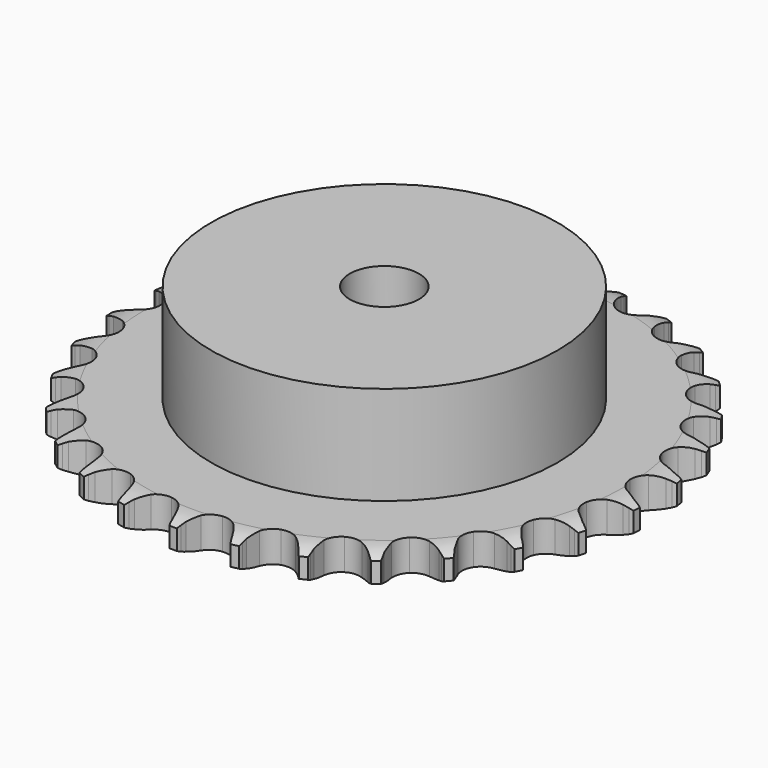
from build123d import *

# Parameters (mm, degrees)
PAD_DEPTH         = 7.2
SKETCH001_R       = 40
PAD001_DEPTH      = 30
SKETCH002_R       = 8
POCKET_DEPTH      = 0.0010001
POCKET_DEPTH_BACK = 30.001


with BuildPart() as part:
    # Sprocket → Pad (new body)
    with BuildSketch(Plane.XY):
        with BuildLine():
            ThreePointArc((-6.7610189515, 62.1665426366), (-5.9564888535, 61.1151350621), (-5.3662959563, 59.9300616844))
            Line((-5.3662959563, 59.9300616844), (-4.9514566278, 58.849368286))
            ThreePointArc((-4.9514566278, 58.849368286), (-4.2924263855, 57.4371830001), (-3.4424852937, 56.1309715768))
            ThreePointArc((-3.4424852937, 56.1309715768), (-1.9227405966, 54.8693324715), (0, 54.4171977849))
            ThreePointArc((0, 54.4171977849), (1.9227405966, 54.8693324715), (3.4424852937, 56.1309715768))
            ThreePointArc((3.4424852937, 56.1309715768), (4.2924263855, 57.4371830001), (4.9514566278, 58.849368286))
            Line((4.9514566278, 58.849368286), (5.3662959563, 59.9300616844))
            ThreePointArc((5.3662959563, 59.9300616844), (5.9564888535, 61.1151350621), (6.7610189515, 62.1665426366))
            ThreePointArc((6.7610189515, 62.1665426366), (7.3207180337, 60.9667661975), (7.6423568032, 59.68252515))
            Line((7.6423568032, 59.68252515), (7.8151802832, 58.5379195696))
            ThreePointArc((7.8151802832, 58.5379195696), (8.1552246721, 57.0170783697), (8.7044977688, 55.5586932329))
            ThreePointArc((8.7044977688, 55.5586932329), (9.9174965656, 53.9998503622), (11.6980889629, 53.1449539409))
            ThreePointArc((11.6980889629, 53.1449539409), (13.6730725454, 53.1731855773), (15.4285015698, 54.0786280749))
            Line((15.4285015698, 54.0786280749), (17.48656893, 56.4090859477))
            ThreePointArc((17.48656893, 56.4090859477), (17.7927187887, 56.9005092237), (18.1240266811, 57.3753351419))
            ThreePointArc((18.1240266811, 57.3753351419), (18.955176942, 58.4058281356), (19.9669191225, 59.2597041961))
            ThreePointArc((19.9669191225, 59.2597041961), (20.255616282, 57.9676591053), (20.2936614525, 56.6443000719))
            Line((20.2936614525, 56.6443000719), (20.2163880501, 55.4893027944))
            ThreePointArc((20.2163880501, 55.4893027944), (20.2215464879, 53.9309185246), (20.44446819, 52.3885521425))
            ThreePointArc((20.44446819, 52.3885521425), (21.2940026108, 50.6053952665), (22.8491882873, 49.387711117))
            ThreePointArc((22.8491882873, 49.387711117), (24.7840668185, 48.9907196232), (26.6930982602, 49.4976280283))
            Line((26.6930982602, 49.4976280283), (29.2040287039, 51.3311774447))
            ThreePointArc((29.2040287039, 51.3311774447), (29.608662427, 51.7452983477), (30.0342980617, 52.1378016963))
            ThreePointArc((30.0342980617, 52.1378016963), (31.0675420239, 52.965529599), (32.2391883471, 53.5819478498))
            ThreePointArc((32.2391883471, 53.5819478498), (32.2433844254, 52.2580486998), (31.996057047, 50.9574504781))
            Line((31.996057047, 50.9574504781), (31.6722999806, 49.8460678924))
            ThreePointArc((31.6722999806, 49.8460678924), (31.3423312645, 48.3230088692), (31.228478001, 46.7687805795))
            ThreePointArc((31.228478001, 46.7687805795), (31.6748247605, 44.844688132), (32.9318849625, 43.3211538117))
            ThreePointArc((32.9318849625, 43.3211538117), (34.7361856727, 42.5175020689), (36.7095553431, 42.6021739077))
            Line((36.7095553431, 42.6021739077), (39.5559405537, 43.8530801349))
            ThreePointArc((39.5559405537, 43.8530801349), (40.040137918, 44.1705348317), (40.5401990457, 44.4623625904))
            ThreePointArc((40.5401990457, 44.4623625904), (41.7272233699, 45.0486217653), (43.0039889558, 45.3987591741))
            ThreePointArc((43.0039889558, 45.3987591741), (42.7234877491, 44.1049100177), (42.2023525751, 42.8878871351))
            Line((42.2023525751, 42.8878871351), (41.6472503653, 41.8720862557))
            ThreePointArc((41.6472503653, 41.8720862557), (40.9975834657, 40.4555690262), (40.5522788886, 38.9621528165))
            ThreePointArc((40.5522788886, 38.9621528165), (40.5745673085, 36.9870932217), (41.474723298, 35.2289475022))
            ThreePointArc((41.474723298, 35.2289475022), (43.0640790913, 34.0562133726), (45.009514418, 33.7146894842))
            Line((45.009514418, 33.7146894842), (48.0582605864, 34.3244615371))
            ThreePointArc((48.0582605864, 34.3244615371), (48.5993810613, 34.530406199), (49.1504853795, 34.7079128261))
            ThreePointArc((49.1504853795, 34.7079128261), (50.4357861275, 35.0252904458), (51.7579708364, 35.0927749765))
            ThreePointArc((51.7579708364, 35.0927749765), (51.2058882694, 33.8894747623), (50.4353130013, 32.8129338561))
            Line((50.4353130013, 32.8129338561), (49.6748216105, 31.9402124032))
            ThreePointArc((49.6748216105, 31.9402124032), (48.7358342296, 30.6964717387), (47.979900286, 29.333698091))
            ThreePointArc((47.979900286, 29.333698091), (47.5770881845, 27.4000229406), (48.078249668, 25.4894747617))
            ThreePointArc((48.078249668, 25.4894747617), (49.378344034, 24.0024939898), (51.2048786231, 23.2507436515))
            Line((51.2048786231, 23.2507436515), (54.3134297669, 23.1908692668))
            ThreePointArc((54.3134297669, 23.1908692668), (54.8861711605, 23.2756741502), (55.4625496438, 23.3305596331))
            ThreePointArc((55.4625496438, 23.3305596331), (56.7860275812, 23.3642154729), (58.0918075256, 23.1458916238))
            ThreePointArc((58.0918075256, 23.1458916238), (57.2939583654, 22.0894053324), (56.3099742464, 21.2036842589))
            Line((56.3099742464, 21.2036842589), (55.3796534068, 20.5148497177))
            ThreePointArc((55.3796534068, 20.5148497177), (54.1952515509, 19.5020415494), (53.1640348719, 18.3336322449))
            ThreePointArc((53.1640348719, 18.3336322449), (52.3549572952, 16.5317580397), (52.4336905186, 14.5581425108))
            ThreePointArc((52.4336905186, 14.5581425108), (53.3837324896, 12.8264446649), (55.005959614, 11.699618887))
            Line((55.005959614, 11.699618887), (58.0289633367, 10.9728977244))
            ThreePointArc((58.0289633367, 10.9728977244), (58.6065448979, 10.9325974473), (59.1812467289, 10.8622954018))
            ThreePointArc((59.1812467289, 10.8622954018), (60.4810174983, 10.6106557519), (61.7093358593, 10.1167321036))
            ThreePointArc((61.7093358593, 10.1167321036), (60.703026646, 9.2564598598), (59.5516436798, 8.602973952))
            Line((59.5516436798, 8.602973952), (58.4949941599, 8.13023546))
            ThreePointArc((58.4949941599, 8.13023546), (57.1205591434, 7.3957175722), (55.8622782748, 6.4763061314))
            ThreePointArc((55.8622782748, 6.4763061314), (54.6847667911, 4.8904865067), (54.3373902764, 2.9460876964))
            ThreePointArc((54.3373902764, 2.9460876964), (54.8929569459, 1.050645043), (56.235023068, -0.3985670534))
            Line((56.235023068, -0.3985670534), (59.0311270754, -1.7581543201))
            ThreePointArc((59.0311270754, -1.7581543201), (59.5865417323, -1.9216753616), (60.1326944922, -2.1138776899))
            ThreePointArc((60.1326944922, -2.1138776899), (61.347982257, -2.6390464391), (62.4414042332, -3.3854745658))
            ThreePointArc((62.4414042332, -3.3854745658), (61.2736888671, -4.0093073881), (60.0087444416, -4.4000018553))
            Line((60.0087444416, -4.4000018553), (58.8751739985, -4.6345395717))
            ThreePointArc((58.8751739985, -4.6345395717), (57.3749728753, -5.0564219389), (55.9484636319, -5.6838448589))
            ThreePointArc((55.9484636319, -5.6838448589), (54.4575773696, -6.9794587401), (53.7003340565, -8.8037229045))
            ThreePointArc((53.7003340565, -8.8037229045), (53.8354477444, -10.7742815734), (54.8345993441, -12.4781164414))
            Line((54.8345993441, -12.4781164414), (57.2730609204, -14.4069970227))
            ThreePointArc((57.2730609204, -14.4069970227), (57.780338101, -14.6860927664), (58.2724042938, -14.9912082103))
            ThreePointArc((58.2724042938, -14.9912082103), (59.3463835488, -15.7653497518), (60.2537819438, -16.7293802072))
            ThreePointArc((60.2537819438, -16.7293802072), (58.9792614976, -17.0876038785), (57.6599030082, -17.1972384662))
            Line((57.6599030082, -17.1972384662), (56.5024161361, -17.1826086839))
            ThreePointArc((56.5024161361, -17.1826086839), (54.9465966432, -17.27212878), (53.4185610119, -17.5782255808))
            ThreePointArc((53.4185610119, -17.5782255808), (51.6840121555, -18.5230522533), (50.5523098999, -20.1418812069))
            ThreePointArc((50.5523098999, -20.1418812069), (50.2606528403, -22.0954147582), (50.8701706992, -23.974202973))
            Line((50.8701706992, -23.974202973), (52.8369700912, -26.3821845567))
            ThreePointArc((52.8369700912, -26.3821845567), (53.2723900783, -26.7638047959), (53.6873612357, -27.1675664963))
            ThreePointArc((53.6873612357, -27.1675664963), (54.5698139046, -28.154482832), (55.248759778, -29.2910386235))
            ThreePointArc((55.248759778, -29.2910386235), (53.9270294113, -29.366903003), (52.6149485946, -29.1903513197))
            Line((52.6149485946, -29.1903513197), (51.487668093, -28.9272381112))
            ThreePointArc((51.487668093, -28.9272381112), (49.9489786209, -28.6802100759), (48.3908658495, -28.6506680113))
            ThreePointArc((48.3908658495, -28.6506680113), (46.4937599757, -29.20052843), (45.0405159171, -30.5382275302))
            ThreePointArc((45.0405159171, -30.5382275302), (44.33572567, -32.3833909061), (44.5271094105, -34.349282419))
            Line((44.5271094105, -34.349282419), (45.9302812646, -37.1237704625))
            ThreePointArc((45.9302812646, -37.1237704625), (46.2734843036, -37.5900710589), (46.5919568354, -38.0735995675))
            ThreePointArc((46.5919568354, -38.0735995675), (47.2416204122, -39.2271435864), (47.6603670096, -40.4830806284))
            ThreePointArc((47.6603670096, -40.4830806284), (46.3532293653, -40.2730383821), (45.109777662, -39.8185557883))
            Line((45.109777662, -39.8185557883), (44.0654139144, -39.3192620347))
            ThreePointArc((44.0654139144, -39.3192620347), (42.6158018725, -38.7472366244), (41.1004675825, -38.3834370485))
            ThreePointArc((41.1004675825, -38.3834370485), (39.1295112535, -38.5126203513), (37.422677469, -39.5066402749))
            ThreePointArc((37.422677469, -39.5066402749), (36.337709243, -41.1571556869), (36.1020099741, -43.1182275956))
            Line((36.1020099741, -43.1182275956), (36.8759435339, -46.1294901216))
            ThreePointArc((36.8759435339, -46.1294901216), (37.1108818322, -46.6586673776), (37.3179643168, -47.1993534387))
            ThreePointArc((37.3179643168, -47.1993534387), (37.7044612546, -48.4655867045), (37.8434284504, -49.7821787769))
            ThreePointArc((37.8434284504, -49.7821787769), (36.612003832, -49.2960512467), (35.4953236618, -48.5848888434))
            Line((35.4953236618, -48.5848888434), (34.5827099563, -47.8727609657))
            ThreePointArc((34.5827099563, -47.8727609657), (33.2899575927, -47.0024854528), (31.8882571312, -46.3214392294))
            ThreePointArc((31.8882571312, -46.3214392294), (29.9356100745, -46.0239049488), (28.0549962148, -46.6277664289))
            ThreePointArc((28.0549962148, -46.6277664289), (26.6405819183, -48.0064576106), (25.9888206758, -49.8710123723))
            Line((25.9888206758, -49.8710123723), (26.0973276683, -52.9782460919))
            ThreePointArc((26.0973276683, -52.9782460919), (26.213015772, -53.545556267), (26.2990252626, -54.1181180014))
            ThreePointArc((26.2990252626, -54.1181180014), (26.4042833942, -55.437832854), (26.2569732369, -56.7535175746))
            ThreePointArc((26.2569732369, -56.7535175746), (25.1588416909, -56.0140355437), (24.2211477775, -55.0794464944))
            Line((24.2211477775, -55.0794464944), (23.4829569166, -54.1877828007))
            ThreePointArc((23.4829569166, -54.1877828007), (22.4075118949, -53.059950301), (21.1849872178, -52.0935023946))
            ThreePointArc((21.1849872178, -52.0935023946), (19.3419530394, -51.3831629027), (17.3754945184, -51.5686300478))
            ThreePointArc((17.3754945184, -51.5686300478), (15.697770592, -52.6110309318), (14.6604230072, -54.2918840381))
            Line((14.6604230072, -54.2918840381), (14.098429766, -57.349798156))
            ThreePointArc((14.098429766, -57.349798156), (14.089458228, -57.9287144571), (14.0503730165, -58.5063795144))
            ThreePointArc((14.0503730165, -58.5063795144), (13.8694705886, -59.817867554), (13.4427711374, -61.0711249676))
            ThreePointArc((13.4427711374, -61.0711249676), (12.5292800744, -60.1128657937), (11.8144179429, -58.9985504437))
            Line((11.8144179429, -58.9985504437), (11.2851669108, -57.9690441373))
            ThreePointArc((11.2851669108, -57.9690441373), (10.4773158451, -56.636390845), (9.4911308474, -55.4297312856))
            ThreePointArc((9.4911308474, -55.4297312856), (7.8438877772, -54.3398012676), (5.8835340099, -54.09820184))
            ThreePointArc((5.8835340099, -54.09820184), (4.0209489596, -54.7555709196), (2.6465202527, -56.1741275474))
            Line((2.6465202527, -56.1741275474), (1.4403049571, -59.039737398))
            ThreePointArc((1.4403049571, -59.039737398), (1.3070932766, -59.6031903423), (1.1447409439, -60.1589477464))
            ThreePointArc((1.1447409439, -60.1589477464), (0.6861367531, -61.4008852499), (0, -62.5331144327))
            ThreePointArc((0, -62.5331144327), (-0.6861367531, -61.4008852499), (-1.1447409439, -60.1589477464))
            Line((-1.1447409439, -60.1589477464), (-1.4403049571, -59.039737398))
            ThreePointArc((-1.4403049571, -59.039737398), (-1.9427878489, -57.5645766999), (-2.6465202527, -56.1741275474))
            ThreePointArc((-2.6465202527, -56.1741275474), (-4.0209489596, -54.7555709196), (-5.8835340099, -54.09820184))
            ThreePointArc((-5.8835340099, -54.09820184), (-7.8438877772, -54.3398012676), (-9.4911308474, -55.4297312856))
            Line((-9.4911308474, -55.4297312856), (-11.2851669108, -57.9690441373))
            ThreePointArc((-11.2851669108, -57.9690441373), (-11.5363899037, -58.4906872912), (-11.8144179429, -58.9985504437))
            ThreePointArc((-11.8144179429, -58.9985504437), (-12.5292800744, -60.1128657937), (-13.4427711374, -61.0711249676))
            ThreePointArc((-13.4427711374, -61.0711249676), (-13.8694705886, -59.817867554), (-14.0503730165, -58.5063795144))
            Line((-14.0503730165, -58.5063795144), (-14.098429766, -57.349798156))
            ThreePointArc((-14.098429766, -57.349798156), (-14.2720489424, -55.8011069268), (-14.6604230072, -54.2918840381))
            ThreePointArc((-14.6604230072, -54.2918840381), (-15.697770592, -52.6110309318), (-17.3754945184, -51.5686300478))
            ThreePointArc((-17.3754945184, -51.5686300478), (-19.3419530394, -51.3831629027), (-21.1849872178, -52.0935023946))
            Line((-21.1849872178, -52.0935023946), (-23.4829569166, -54.1877828007))
            ThreePointArc((-23.4829569166, -54.1877828007), (-23.8404443139, -54.6432247102), (-24.2211477775, -55.0794464944))
            ThreePointArc((-24.2211477775, -55.0794464944), (-25.1588416909, -56.0140355437), (-26.2569732369, -56.7535175746))
            ThreePointArc((-26.2569732369, -56.7535175746), (-26.4042833942, -55.437832854), (-26.2990252626, -54.1181180014))
            Line((-26.2990252626, -54.1181180014), (-26.0973276683, -52.9782460919))
            ThreePointArc((-26.0973276683, -52.9782460919), (-25.9339648896, -51.4284394122), (-25.9888206758, -49.8710123723))
            ThreePointArc((-25.9888206758, -49.8710123723), (-26.6405819183, -48.0064576106), (-28.0549962148, -46.6277664289))
            ThreePointArc((-28.0549962148, -46.6277664289), (-29.9356100745, -46.0239049488), (-31.8882571312, -46.3214392294))
            Line((-31.8882571312, -46.3214392294), (-34.5827099563, -47.8727609657))
            ThreePointArc((-34.5827099563, -47.8727609657), (-35.0297460447, -48.2407056733), (-35.4953236618, -48.5848888434))
            ThreePointArc((-35.4953236618, -48.5848888434), (-36.612003832, -49.2960512467), (-37.8434284504, -49.7821787769))
            ThreePointArc((-37.8434284504, -49.7821787769), (-37.7044612546, -48.4655867045), (-37.3179643168, -47.1993534387))
            Line((-37.3179643168, -47.1993534387), (-36.8759435339, -46.1294901216))
            ThreePointArc((-36.8759435339, -46.1294901216), (-36.383237462, -44.6510352293), (-36.1020099741, -43.1182275956))
            ThreePointArc((-36.1020099741, -43.1182275956), (-36.337709243, -41.1571556869), (-37.422677469, -39.5066402749))
            ThreePointArc((-37.422677469, -39.5066402749), (-39.1295112535, -38.5126203513), (-41.1004675825, -38.3834370485))
            Line((-41.1004675825, -38.3834370485), (-44.0654139144, -39.3192620347))
            ThreePointArc((-44.0654139144, -39.3192620347), (-44.5810957832, -39.5825048548), (-45.109777662, -39.8185557883))
            ThreePointArc((-45.109777662, -39.8185557883), (-46.3532293653, -40.2730383821), (-47.6603670096, -40.4830806284))
            ThreePointArc((-47.6603670096, -40.4830806284), (-47.2416204122, -39.2271435864), (-46.5919568354, -38.0735995675))
            Line((-46.5919568354, -38.0735995675), (-45.9302812646, -37.1237704625))
            ThreePointArc((-45.9302812646, -37.1237704625), (-45.1312702878, -35.7857982652), (-44.5271094105, -34.349282419))
            ThreePointArc((-44.5271094105, -34.349282419), (-44.33572567, -32.3833909061), (-45.0405159171, -30.5382275302))
            ThreePointArc((-45.0405159171, -30.5382275302), (-46.4937599757, -29.20052843), (-48.3908658495, -28.6506680113))
            Line((-48.3908658495, -28.6506680113), (-51.487668093, -28.9272381112))
            ThreePointArc((-51.487668093, -28.9272381112), (-52.0478830313, -29.073470102), (-52.6149485946, -29.1903513197))
            ThreePointArc((-52.6149485946, -29.1903513197), (-53.9270294113, -29.366903003), (-55.248759778, -29.2910386235))
            ThreePointArc((-55.248759778, -29.2910386235), (-54.5698139046, -28.154482832), (-53.6873612357, -27.1675664963))
            Line((-53.6873612357, -27.1675664963), (-52.8369700912, -26.3821845567))
            ThreePointArc((-52.8369700912, -26.3821845567), (-51.7690150747, -25.2472571472), (-50.8701706992, -23.974202973))
            ThreePointArc((-50.8701706992, -23.974202973), (-50.2606528403, -22.0954147582), (-50.5523098999, -20.1418812069))
            ThreePointArc((-50.5523098999, -20.1418812069), (-51.6840121555, -18.5230522533), (-53.4185610119, -17.5782255808))
            Line((-53.4185610119, -17.5782255808), (-56.5024161361, -17.1826086839))
            ThreePointArc((-56.5024161361, -17.1826086839), (-57.0809691158, -17.2049922002), (-57.6599030082, -17.1972384662))
            ThreePointArc((-57.6599030082, -17.1972384662), (-58.9792614976, -17.0876038785), (-60.2537819438, -16.7293802072))
            ThreePointArc((-60.2537819438, -16.7293802072), (-59.3463835488, -15.7653497518), (-58.2724042938, -14.9912082103))
            Line((-58.2724042938, -14.9912082103), (-57.2730609204, -14.4069970227))
            ThreePointArc((-57.2730609204, -14.4069970227), (-55.9860982539, -13.5281823454), (-54.8345993441, -12.4781164414))
            ThreePointArc((-54.8345993441, -12.4781164414), (-53.8354477444, -10.7742815734), (-53.7003340565, -8.8037229045))
            ThreePointArc((-53.7003340565, -8.8037229045), (-54.4575773696, -6.9794587401), (-55.9484636319, -5.6838448589))
            Line((-55.9484636319, -5.6838448589), (-58.8751739985, -4.6345395717))
            ThreePointArc((-58.8751739985, -4.6345395717), (-59.4450125255, -4.532027985), (-60.0087444416, -4.4000018553))
            ThreePointArc((-60.0087444416, -4.4000018553), (-61.2736888671, -4.0093073881), (-62.4414042332, -3.3854745658))
            ThreePointArc((-62.4414042332, -3.3854745658), (-61.347982257, -2.6390464391), (-60.1326944922, -2.1138776899))
            Line((-60.1326944922, -2.1138776899), (-59.0311270754, -1.7581543201))
            ThreePointArc((-59.0311270754, -1.7581543201), (-57.5853337028, -1.1765447725), (-56.235023068, -0.3985670534))
            ThreePointArc((-56.235023068, -0.3985670534), (-54.8929569459, 1.050645043), (-54.3373902764, 2.9460876964))
            ThreePointArc((-54.3373902764, 2.9460876964), (-54.6847667911, 4.8904865067), (-55.8622782748, 6.4763061314))
            Line((-55.8622782748, 6.4763061314), (-58.4949941599, 8.13023546))
            ThreePointArc((-58.4949941599, 8.13023546), (-59.0294732178, 8.3528488217), (-59.5516436798, 8.602973952))
            ThreePointArc((-59.5516436798, 8.602973952), (-60.703026646, 9.2564598598), (-61.7093358593, 10.1167321036))
            ThreePointArc((-61.7093358593, 10.1167321036), (-60.4810174983, 10.6106557519), (-59.1812467289, 10.8622954018))
            Line((-59.1812467289, 10.8622954018), (-58.0289633367, 10.9728977244))
            ThreePointArc((-58.0289633367, 10.9728977244), (-56.4919429493, 11.2301067262), (-55.005959614, 11.699618887))
            ThreePointArc((-55.005959614, 11.699618887), (-53.3837324896, 12.8264446649), (-52.4336905186, 14.5581425108))
            ThreePointArc((-52.4336905186, 14.5581425108), (-52.3549572952, 16.5317580397), (-53.1640348719, 18.3336322449))
            Line((-53.1640348719, 18.3336322449), (-55.3796534068, 20.5148497177))
            ThreePointArc((-55.3796534068, 20.5148497177), (-55.853781349, 20.8471557011), (-56.3099742464, 21.2036842589))
            ThreePointArc((-56.3099742464, 21.2036842589), (-57.2939583654, 22.0894053324), (-58.0918075256, 23.1458916238))
            ThreePointArc((-58.0918075256, 23.1458916238), (-56.7860275812, 23.3642154729), (-55.4625496438, 23.3305596331))
            Line((-55.4625496438, 23.3305596331), (-54.3134297669, 23.1908692668))
            ThreePointArc((-54.3134297669, 23.1908692668), (-52.7570517297, 23.1116509158), (-51.2048786231, 23.2507436515))
            ThreePointArc((-51.2048786231, 23.2507436515), (-49.378344034, 24.0024939898), (-48.078249668, 25.4894747617))
            ThreePointArc((-48.078249668, 25.4894747617), (-47.5770881845, 27.4000229406), (-47.979900286, 29.333698091))
            Line((-47.979900286, 29.333698091), (-49.6748216105, 31.9402124032))
            ThreePointArc((-49.6748216105, 31.9402124032), (-50.0664287414, 32.3666727498), (-50.4353130013, 32.8129338561))
            ThreePointArc((-50.4353130013, 32.8129338561), (-51.2058882694, 33.8894747623), (-51.7579708364, 35.0927749765))
            ThreePointArc((-51.7579708364, 35.0927749765), (-50.4357861275, 35.0252904458), (-49.1504853795, 34.7079128261))
            Line((-49.1504853795, 34.7079128261), (-48.0582605864, 34.3244615371))
            ThreePointArc((-48.0582605864, 34.3244615371), (-46.5552994065, 33.9125199954), (-45.009514418, 33.7146894842))
            ThreePointArc((-45.009514418, 33.7146894842), (-43.0640790913, 34.0562133726), (-41.474723298, 35.2289475022))
            ThreePointArc((-41.474723298, 35.2289475022), (-40.5745673085, 36.9870932217), (-40.5522788886, 38.9621528165))
            Line((-40.5522788886, 38.9621528165), (-41.6472503653, 41.8720862557))
            ThreePointArc((-41.6472503653, 41.8720862557), (-41.9380255706, 42.3727601537), (-42.2023525751, 42.8878871351))
            ThreePointArc((-42.2023525751, 42.8878871351), (-42.7234877491, 44.1049100177), (-43.0039889558, 45.3987591741))
            ThreePointArc((-43.0039889558, 45.3987591741), (-41.7272233699, 45.0486217653), (-40.5401990457, 44.4623625904))
            Line((-40.5401990457, 44.4623625904), (-39.5559405537, 43.8530801349))
            ThreePointArc((-39.5559405537, 43.8530801349), (-38.1766730256, 43.127677331), (-36.7095553431, 42.6021739077))
            ThreePointArc((-36.7095553431, 42.6021739077), (-34.7361856727, 42.5175020689), (-32.9318849625, 43.3211538117))
            ThreePointArc((-32.9318849625, 43.3211538117), (-31.6748247605, 44.844688132), (-31.228478001, 46.7687805795))
            Line((-31.228478001, 46.7687805795), (-31.6722999806, 49.8460678924))
            ThreePointArc((-31.6722999806, 49.8460678924), (-31.848646935, 50.3975443868), (-31.996057047, 50.9574504781))
            ThreePointArc((-31.996057047, 50.9574504781), (-32.2433844254, 52.2580486998), (-32.2391883471, 53.5819478498))
            ThreePointArc((-32.2391883471, 53.5819478498), (-31.0675420239, 52.965529599), (-30.0342980617, 52.1378016963))
            Line((-30.0342980617, 52.1378016963), (-29.2040287039, 51.3311774447))
            ThreePointArc((-29.2040287039, 51.3311774447), (-28.0129478443, 50.3262324076), (-26.6930982602, 49.4976280283))
            ThreePointArc((-26.6930982602, 49.4976280283), (-24.7840668185, 48.9907196232), (-22.8491882873, 49.387711117))
            ThreePointArc((-22.8491882873, 49.387711117), (-21.2940026108, 50.6053952665), (-20.44446819, 52.3885521425))
            Line((-20.44446819, 52.3885521425), (-20.2163880501, 55.4893027944))
            ThreePointArc((-20.2163880501, 55.4893027944), (-20.2700609659, 56.0657954572), (-20.2936614525, 56.6443000719))
            ThreePointArc((-20.2936614525, 56.6443000719), (-20.255616282, 57.9676591053), (-19.9669191225, 59.2597041961))
            ThreePointArc((-19.9669191225, 59.2597041961), (-18.955176942, 58.4058281356), (-18.1240266811, 57.3753351419))
            Line((-18.1240266811, 57.3753351419), (-17.48656893, 56.4090859477))
            ThreePointArc((-17.48656893, 56.4090859477), (-16.5393683559, 55.1715887904), (-15.4285015698, 54.0786280749))
            ThreePointArc((-15.4285015698, 54.0786280749), (-13.6730725454, 53.1731855773), (-11.6980889629, 53.1449539409))
            ThreePointArc((-11.6980889629, 53.1449539409), (-9.9174965656, 53.9998503622), (-8.7044977688, 55.5586932329))
            Line((-8.7044977688, 55.5586932329), (-7.8151802832, 58.5379195696))
            ThreePointArc((-7.8151802832, 58.5379195696), (-7.7436694745, 59.1124722447), (-7.6423568032, 59.68252515))
            ThreePointArc((-7.6423568032, 59.68252515), (-7.3207180337, 60.9667661975), (-6.7610189515, 62.1665426366))
        make_face()
    extrude(amount=PAD_DEPTH)

    # Sketch → Groove (revolve, cut)
    with BuildSketch(Plane.XZ):
        with BuildLine():
            Line((55.3334313734, 0), (61, 0))
            Line((66.6665686266, 0), (61, 0))
            Line((66.6665686266, 7.2), (66.6665686266, 0))
            Line((61, 7.2), (66.6665686266, 7.2))
            Line((55.3334313734, 7.2), (61, 7.2))
            ThreePointArc((61, 5.9), (58.2403197441, 6.8708326483), (55.3334313734, 7.2))
            Line((61, 1.3), (61, 5.9))
            ThreePointArc((55.3334313734, 0), (58.2403197441, 0.3291673517), (61, 1.3))
        make_face()
    revolve(axis=Axis((0, 0, 0), (0, 0, 1)), mode=Mode.SUBTRACT)

    # Sketch001 → Pad001 (join)
    with BuildSketch(Plane.XY):
        Circle(SKETCH001_R)
    extrude(amount=PAD001_DEPTH)

    # Sketch002 → Pocket (cut, two sides)
    with BuildSketch(Plane.XY) as pocket_sk:
        Circle(SKETCH002_R)
    extrude(amount=-POCKET_DEPTH, mode=Mode.SUBTRACT)
    extrude(pocket_sk.sketch, amount=POCKET_DEPTH_BACK, mode=Mode.SUBTRACT)


solid = part.part
